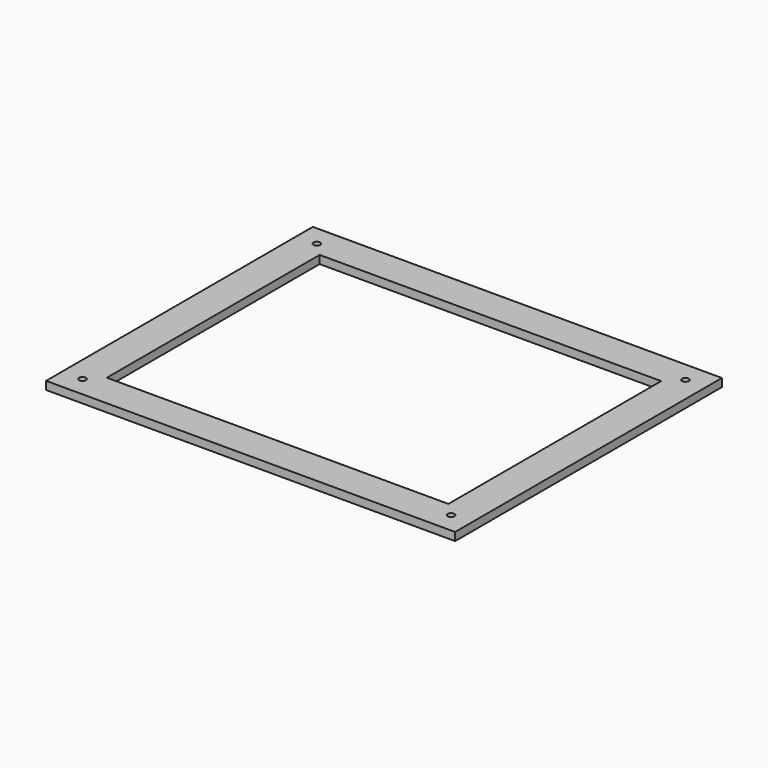
from build123d import *

# Parameters (mm, degrees)
F0_W     = 303
F0_H     = 247
F0_R     = 2.5
F0_W_2   = 253
F0_H_2   = 197
F1_DEPTH = 6


with BuildPart() as f1:
    # F0 (on Top) → F1 (new body)
    with BuildSketch(Plane.XY):
        Rectangle(F0_W, F0_H)
        with Locations((-136.5, -108.5)):
            Circle(F0_R, mode=Mode.SUBTRACT)
        with Locations((136.5, -108.5)):
            Circle(F0_R, mode=Mode.SUBTRACT)
        with Locations((-136.5, 108.5)):
            Circle(F0_R, mode=Mode.SUBTRACT)
        Rectangle(F0_W_2, F0_H_2, mode=Mode.SUBTRACT)
        with Locations((136.5, 108.5)):
            Circle(F0_R, mode=Mode.SUBTRACT)
    extrude(amount=F1_DEPTH)


solid = f1.part
